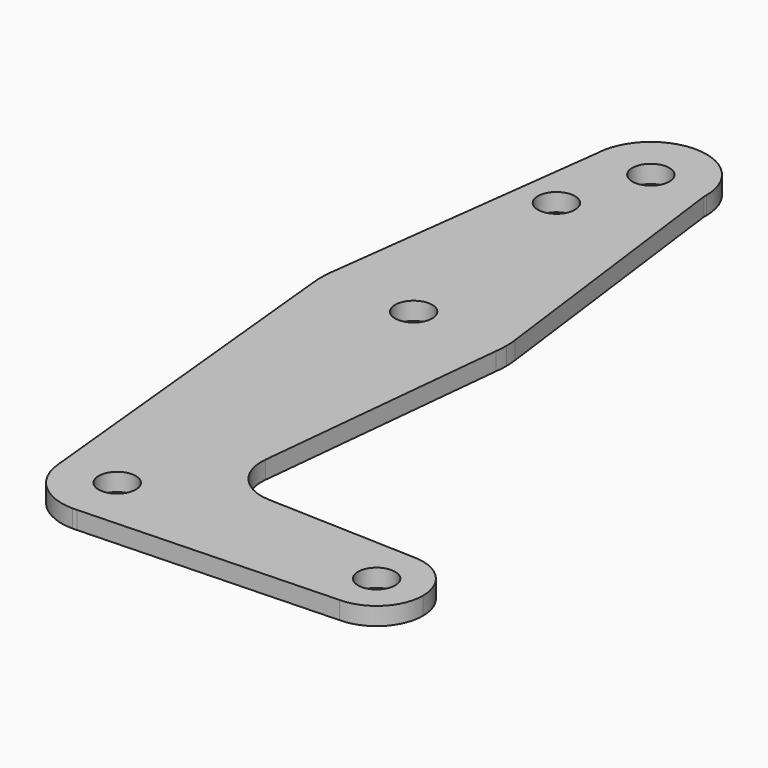
from build123d import *

# Parameters (mm, degrees)
F0_R     = 3.175
F1_DEPTH = 3.048


with BuildPart() as f1:
    # F0 (on Top) → F1 (new body)
    with BuildSketch(Plane.XY):
        with BuildLine():
            ThreePointArc((-1.7614497883, 76.8072893563), (-1.750939779, 77.0654452609), (-1.7474355832, 77.3237912536))
            ThreePointArc((-1.7474355832, 77.3237912536), (-11.0684772867, 86.8466073294), (-20.7887008878, 77.731614318))
            ThreePointArc((-20.7887008878, 77.731614318), (-11.7346056028, 67.8100105186), (-1.7614497883, 76.8072893563))
        make_face()
        with Locations((-11.2724355832, 77.3237912536)):
            Circle(F0_R, mode=Mode.SUBTRACT)
        with BuildLine():
            ThreePointArc((-1.7614497883, 76.8072893563), (-11.7346056028, 67.8100105186), (-20.7887008878, 77.731614318))
            Line((-20.7887008878, 77.731614318), (-27.0216247404, 28.5184505953))
            ThreePointArc((-27.0216247404, 28.5184505953), (-11.2922306347, 42.398778912), (4.4717301923, 28.5577207099))
            Line((4.4717301923, 28.5577207099), (-1.7614497883, 76.8072893563))
        make_face()
        with Locations((-16.0349355832, 63.0489912536)):
            Circle(F0_R, mode=Mode.SUBTRACT)
        with BuildLine():
            Line((-27.0216247404, 24.5291319118), (-27.0216247404, 28.5184505953))
            ThreePointArc((-27.0216247404, 28.5184505953), (-27.1474355832, 26.5237912536), (-27.0216247404, 24.5291319118))
        make_face()
        with BuildLine():
            ThreePointArc((4.4717301923, 28.5577207099), (-11.2922306347, 42.398778912), (-27.0216247404, 28.5184505953))
            Line((-27.0216247404, 28.5184505953), (-27.0216247404, 24.5291319118))
            ThreePointArc((-27.0216247404, 24.5291319118), (-11.2922306347, 10.6488035951), (4.4717301923, 24.4898617973))
            Line((4.4717301923, 24.4898617973), (4.4717301923, 28.5577207099))
        make_face()
        with Locations((-11.2724355832, 26.5237912536)):
            Circle(F0_R, mode=Mode.SUBTRACT)
        with BuildLine():
            ThreePointArc((4.6025644168, 26.5237912536), (4.569822095, 27.5428578151), (4.4717301923, 28.5577207099))
            Line((4.4717301923, 28.5577207099), (4.4717301923, 24.4898617973))
            ThreePointArc((4.4717301923, 24.4898617973), (4.569822095, 25.504724692), (4.6025644168, 26.5237912536))
        make_face()
        with BuildLine():
            ThreePointArc((4.4717301923, 24.4898617973), (-11.2922306347, 10.6488035951), (-27.0216247404, 24.5291319118))
            Line((-27.0216247404, 24.5291319118), (-20.7497711392, -37.9279102532))
            ThreePointArc((-20.7497711392, -37.9279102532), (-11.7488827621, -27.4631323205), (-1.7474355832, -36.9762087464))
            ThreePointArc((-1.7474355832, -36.9762087464), (-4.3011454767, -43.4667202249), (-10.5929451373, -46.4769412305))
            Line((-10.5929451373, -46.4769412305), (33.1775644168, -44.9137087464))
            ThreePointArc((33.1775644168, -44.9137087464), (25.2413208626, -36.8349837543), (33.4599696914, -29.0437341319))
            Line((33.4599696914, -29.0437341319), (7.6599412279, -28.1252232666))
            ThreePointArc((7.6599412279, -28.1252232666), (1.9510668249, -25.4054593911), (0.0329835666, -19.3797379321))
            Line((0.0329835666, -19.3797379321), (4.4717301923, 24.4898617973))
        make_face()
        with BuildLine():
            ThreePointArc((-1.7474355832, -36.9762087464), (-11.7488827621, -27.4631323205), (-20.7497711392, -37.9279102532))
            ThreePointArc((-20.7497711392, -37.9279102532), (-17.6622974028, -44.0398686283), (-11.2724355832, -46.5012087464))
            Line((-11.2724355832, -46.5012087464), (-10.5929451373, -46.4769412305))
            ThreePointArc((-10.5929451373, -46.4769412305), (-4.3011454767, -43.4667202249), (-1.7474355832, -36.9762087464))
        make_face()
        with Locations((-11.2724355832, -36.9762087464)):
            Circle(F0_R, mode=Mode.SUBTRACT)
        with BuildLine():
            Line((-10.5929451373, -46.4769412305), (-11.2724355832, -46.5012087464))
            ThreePointArc((-11.2724355832, -46.5012087464), (-10.932473755, -46.4951399341), (-10.5929451373, -46.4769412305))
        make_face()
        with BuildLine():
            ThreePointArc((41.1150644168, -36.9762087464), (38.8891972007, -31.4642982617), (33.4599696914, -29.0437341319))
            ThreePointArc((33.4599696914, -29.0437341319), (25.2413208626, -36.8349837543), (33.1775644168, -44.9137087464))
            ThreePointArc((33.1775644168, -44.9137087464), (38.7902244925, -42.5888688221), (41.1150644168, -36.9762087464))
        make_face()
        with Locations((33.1775644168, -36.9762087464)):
            Circle(F0_R, mode=Mode.SUBTRACT)
    extrude(amount=F1_DEPTH)


solid = f1.part
